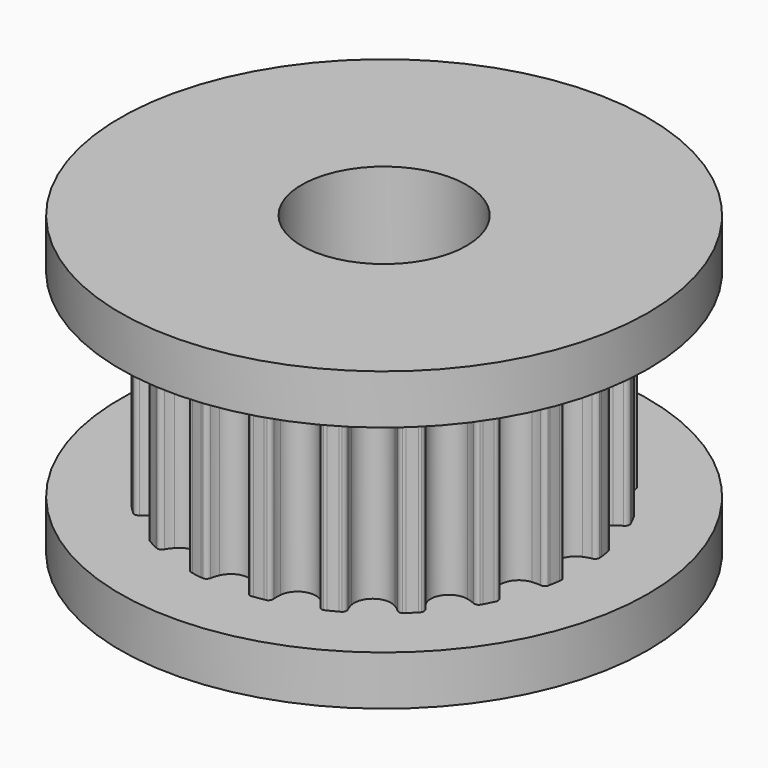
from build123d import *

# Parameters (mm, degrees)
F1_DEPTH = 6
F2_R     = 8
F3_DEPTH = 1.5
F4_R     = 8
F5_DEPTH = 1.5
F6_R     = 2.5
F7_DEPTH = 9.001


with BuildPart() as f1:
    # F0 (on Top) → F1 (new body)
    with BuildSketch(Plane.XY):
        with BuildLine():
            ThreePointArc((-0.513747, -5.595026), (0, -5.25), (0.513747, -5.595026))
            ThreePointArc((0.513747, -5.595026), (0.559269, -5.712589), (0.589638, -5.834946))
            ThreePointArc((0.589638, -5.834946), (0.634012, -5.91692), (0.718237, -5.956856))
            ThreePointArc((0.718237, -5.956856), (0.75551, -5.952244), (0.792754, -5.947398))
            ThreePointArc((0.792754, -5.947398), (0.938607, -5.92613), (1.083893, -5.901286))
            ThreePointArc((1.083893, -5.901286), (1.120812, -5.894386), (1.157686, -5.887254))
            ThreePointArc((1.157686, -5.887254), (1.225448, -5.823246), (1.242318, -5.731572))
            ThreePointArc((1.242318, -5.731572), (1.233391, -5.605819), (1.240356, -5.479943))
            ThreePointArc((1.240356, -5.479943), (1.622339, -4.993047), (2.217561, -5.162429))
            ThreePointArc((2.217561, -5.162429), (2.297184, -5.260172), (2.363877, -5.367155))
            ThreePointArc((2.363877, -5.367155), (2.43141, -5.431405), (2.523854, -5.44336))
            ThreePointArc((2.523854, -5.44336), (2.557877, -5.427455), (2.591801, -5.411337))
            ThreePointArc((2.591801, -5.411337), (2.723943, -5.346039), (2.854442, -5.277515))
            ThreePointArc((2.854442, -5.277515), (2.887421, -5.259544), (2.920286, -5.241367))
            ThreePointArc((2.920286, -5.241367), (2.964952, -5.159552), (2.952668, -5.067151))
            ThreePointArc((2.952668, -5.067151), (2.905317, -4.950312), (2.873044, -4.828444))
            ThreePointArc((2.873044, -4.828444), (3.085873, -4.247339), (3.704304, -4.224498))
            ThreePointArc((3.704304, -4.224498), (3.810234, -4.292852), (3.906722, -4.37399))
            ThreePointArc((3.906722, -4.37399), (3.990805, -4.414226), (4.082418, -4.397029))
            ThreePointArc((4.082418, -4.397029), (4.109862, -4.371389), (4.137144, -4.345577))
            ThreePointArc((4.137144, -4.345577), (4.242641, -4.242641), (4.345577, -4.137144))
            ThreePointArc((4.345577, -4.137144), (4.371389, -4.109862), (4.397029, -4.082418))
            ThreePointArc((4.397029, -4.082418), (4.414226, -3.990805), (4.37399, -3.906722))
            ThreePointArc((4.37399, -3.906722), (4.292852, -3.810234), (4.224498, -3.704304))
            ThreePointArc((4.224498, -3.704304), (4.247339, -3.085873), (4.828444, -2.873044))
            ThreePointArc((4.828444, -2.873044), (4.950312, -2.905317), (5.067151, -2.952668))
            ThreePointArc((5.067151, -2.952668), (5.159552, -2.964952), (5.241367, -2.920286))
            ThreePointArc((5.241367, -2.920286), (5.259544, -2.887421), (5.277515, -2.854442))
            ThreePointArc((5.277515, -2.854442), (5.346039, -2.723943), (5.411337, -2.591801))
            ThreePointArc((5.411337, -2.591801), (5.443243, -2.467372), (5.367155, -2.363877))
            ThreePointArc((5.367155, -2.363877), (5.260172, -2.297184), (5.162429, -2.217561))
            ThreePointArc((5.162429, -2.217561), (4.993047, -1.622339), (5.479943, -1.240356))
            ThreePointArc((5.479943, -1.240356), (5.605819, -1.233391), (5.731572, -1.242318))
            ThreePointArc((5.731572, -1.242318), (5.823246, -1.225448), (5.887254, -1.157686))
            ThreePointArc((5.887254, -1.157686), (5.894386, -1.120812), (5.901286, -1.083893))
            ThreePointArc((5.901286, -1.083893), (5.92613, -0.938607), (5.947398, -0.792754))
            ThreePointArc((5.947398, -0.792754), (5.952244, -0.75551), (5.956856, -0.718237))
            ThreePointArc((5.956856, -0.718237), (5.91692, -0.634012), (5.834946, -0.589638))
            ThreePointArc((5.834946, -0.589638), (5.712589, -0.559269), (5.595026, -0.513747))
            ThreePointArc((5.595026, -0.513747), (5.25, 0), (5.595026, 0.513747))
            ThreePointArc((5.595026, 0.513747), (5.712589, 0.559269), (5.834946, 0.589638))
            ThreePointArc((5.834946, 0.589638), (5.91692, 0.634012), (5.956856, 0.718237))
            ThreePointArc((5.956856, 0.718237), (5.952244, 0.75551), (5.947398, 0.792754))
            ThreePointArc((5.947398, 0.792754), (5.92613, 0.938607), (5.901286, 1.083893))
            ThreePointArc((5.901286, 1.083893), (5.894386, 1.120812), (5.887254, 1.157686))
            ThreePointArc((5.887254, 1.157686), (5.823246, 1.225448), (5.731572, 1.242318))
            ThreePointArc((5.731572, 1.242318), (5.605819, 1.233391), (5.479943, 1.240356))
            ThreePointArc((5.479943, 1.240356), (4.993047, 1.622339), (5.162429, 2.217561))
            ThreePointArc((5.162429, 2.217561), (5.260172, 2.297184), (5.367155, 2.363877))
            ThreePointArc((5.367155, 2.363877), (5.431405, 2.43141), (5.44336, 2.523854))
            ThreePointArc((5.44336, 2.523854), (5.427455, 2.557877), (5.411337, 2.591801))
            ThreePointArc((5.411337, 2.591801), (5.346039, 2.723943), (5.277515, 2.854442))
            ThreePointArc((5.277515, 2.854442), (5.259544, 2.887421), (5.241367, 2.920286))
            ThreePointArc((5.241367, 2.920286), (5.159552, 2.964952), (5.067151, 2.952668))
            ThreePointArc((5.067151, 2.952668), (4.950312, 2.905317), (4.828444, 2.873044))
            ThreePointArc((4.828444, 2.873044), (4.247339, 3.085873), (4.224498, 3.704304))
            ThreePointArc((4.224498, 3.704304), (4.292852, 3.810234), (4.37399, 3.906722))
            ThreePointArc((4.37399, 3.906722), (4.414226, 3.990805), (4.397029, 4.082418))
            ThreePointArc((4.397029, 4.082418), (4.371389, 4.109862), (4.345577, 4.137144))
            ThreePointArc((4.345577, 4.137144), (4.242641, 4.242641), (4.137144, 4.345577))
            ThreePointArc((4.137144, 4.345577), (4.109862, 4.371389), (4.082418, 4.397029))
            ThreePointArc((4.082418, 4.397029), (3.990805, 4.414226), (3.906722, 4.37399))
            ThreePointArc((3.906722, 4.37399), (3.810234, 4.292852), (3.704304, 4.224498))
            ThreePointArc((3.704304, 4.224498), (3.085873, 4.247339), (2.873044, 4.828444))
            ThreePointArc((2.873044, 4.828444), (2.905317, 4.950312), (2.952668, 5.067151))
            ThreePointArc((2.952668, 5.067151), (2.964952, 5.159552), (2.920286, 5.241367))
            ThreePointArc((2.920286, 5.241367), (2.887421, 5.259544), (2.854442, 5.277515))
            ThreePointArc((2.854442, 5.277515), (2.723943, 5.346039), (2.591801, 5.411337))
            ThreePointArc((2.591801, 5.411337), (2.557877, 5.427455), (2.523854, 5.44336))
            ThreePointArc((2.523854, 5.44336), (2.43141, 5.431405), (2.363877, 5.367155))
            ThreePointArc((2.363877, 5.367155), (2.297184, 5.260172), (2.217561, 5.162429))
            ThreePointArc((2.217561, 5.162429), (1.622339, 4.993047), (1.240356, 5.479943))
            ThreePointArc((1.240356, 5.479943), (1.233391, 5.605819), (1.242318, 5.731572))
            ThreePointArc((1.242318, 5.731572), (1.225448, 5.823246), (1.157686, 5.887254))
            ThreePointArc((1.157686, 5.887254), (1.120812, 5.894386), (1.083893, 5.901286))
            ThreePointArc((1.083893, 5.901286), (0.938607, 5.92613), (0.792754, 5.947398))
            ThreePointArc((0.792754, 5.947398), (0.75551, 5.952244), (0.718237, 5.956856))
            ThreePointArc((0.718237, 5.956856), (0.634012, 5.91692), (0.589638, 5.834946))
            ThreePointArc((0.589638, 5.834946), (0.559269, 5.712589), (0.513747, 5.595026))
            ThreePointArc((0.513747, 5.595026), (0, 5.25), (-0.513747, 5.595026))
            ThreePointArc((-0.513747, 5.595026), (-0.559269, 5.712589), (-0.589638, 5.834946))
            ThreePointArc((-0.589638, 5.834946), (-0.634012, 5.91692), (-0.718237, 5.956856))
            ThreePointArc((-0.718237, 5.956856), (-0.75551, 5.952244), (-0.792754, 5.947398))
            ThreePointArc((-0.792754, 5.947398), (-0.938607, 5.92613), (-1.083893, 5.901286))
            ThreePointArc((-1.083893, 5.901286), (-1.120812, 5.894386), (-1.157686, 5.887254))
            ThreePointArc((-1.157686, 5.887254), (-1.225448, 5.823246), (-1.242318, 5.731572))
            ThreePointArc((-1.242318, 5.731572), (-1.233391, 5.605819), (-1.240356, 5.479943))
            ThreePointArc((-1.240356, 5.479943), (-1.622339, 4.993047), (-2.217561, 5.162429))
            ThreePointArc((-2.217561, 5.162429), (-2.297184, 5.260172), (-2.363877, 5.367155))
            ThreePointArc((-2.363877, 5.367155), (-2.43141, 5.431405), (-2.523854, 5.44336))
            ThreePointArc((-2.523854, 5.44336), (-2.557877, 5.427455), (-2.591801, 5.411337))
            ThreePointArc((-2.591801, 5.411337), (-2.723943, 5.346039), (-2.854442, 5.277515))
            ThreePointArc((-2.854442, 5.277515), (-2.887421, 5.259544), (-2.920286, 5.241367))
            ThreePointArc((-2.920286, 5.241367), (-2.964952, 5.159552), (-2.952668, 5.067151))
            ThreePointArc((-2.952668, 5.067151), (-2.905317, 4.950312), (-2.873044, 4.828444))
            ThreePointArc((-2.873044, 4.828444), (-3.085873, 4.247339), (-3.704304, 4.224498))
            ThreePointArc((-3.704304, 4.224498), (-3.810234, 4.292852), (-3.906722, 4.37399))
            ThreePointArc((-3.906722, 4.37399), (-3.990805, 4.414226), (-4.082418, 4.397029))
            ThreePointArc((-4.082418, 4.397029), (-4.109862, 4.371389), (-4.137144, 4.345577))
            ThreePointArc((-4.137144, 4.345577), (-4.242641, 4.242641), (-4.345577, 4.137144))
            ThreePointArc((-4.345577, 4.137144), (-4.371389, 4.109862), (-4.397029, 4.082418))
            ThreePointArc((-4.397029, 4.082418), (-4.414226, 3.990805), (-4.37399, 3.906722))
            ThreePointArc((-4.37399, 3.906722), (-4.292852, 3.810234), (-4.224498, 3.704304))
            ThreePointArc((-4.224498, 3.704304), (-4.247339, 3.085873), (-4.828444, 2.873044))
            ThreePointArc((-4.828444, 2.873044), (-4.950312, 2.905317), (-5.067151, 2.952668))
            ThreePointArc((-5.067151, 2.952668), (-5.159552, 2.964952), (-5.241367, 2.920286))
            ThreePointArc((-5.241367, 2.920286), (-5.259544, 2.887421), (-5.277515, 2.854442))
            ThreePointArc((-5.277515, 2.854442), (-5.346039, 2.723943), (-5.411337, 2.591801))
            ThreePointArc((-5.411337, 2.591801), (-5.427455, 2.557877), (-5.44336, 2.523854))
            ThreePointArc((-5.44336, 2.523854), (-5.431405, 2.43141), (-5.367155, 2.363877))
            ThreePointArc((-5.367155, 2.363877), (-5.260172, 2.297184), (-5.162429, 2.217561))
            ThreePointArc((-5.162429, 2.217561), (-4.993047, 1.622339), (-5.479943, 1.240356))
            ThreePointArc((-5.479943, 1.240356), (-5.605819, 1.233391), (-5.731572, 1.242318))
            ThreePointArc((-5.731572, 1.242318), (-5.823246, 1.225448), (-5.887254, 1.157686))
            ThreePointArc((-5.887254, 1.157686), (-5.894386, 1.120812), (-5.901286, 1.083893))
            ThreePointArc((-5.901286, 1.083893), (-5.92613, 0.938607), (-5.947398, 0.792754))
            ThreePointArc((-5.947398, 0.792754), (-5.952244, 0.75551), (-5.956856, 0.718237))
            ThreePointArc((-5.956856, 0.718237), (-5.91692, 0.634012), (-5.834946, 0.589638))
            ThreePointArc((-5.834946, 0.589638), (-5.712589, 0.559269), (-5.595026, 0.513747))
            ThreePointArc((-5.595026, 0.513747), (-5.25, 0), (-5.595026, -0.513747))
            ThreePointArc((-5.595026, -0.513747), (-5.712589, -0.559269), (-5.834946, -0.589638))
            ThreePointArc((-5.834946, -0.589638), (-5.91692, -0.634012), (-5.956856, -0.718237))
            ThreePointArc((-5.956856, -0.718237), (-5.952244, -0.75551), (-5.947398, -0.792754))
            ThreePointArc((-5.947398, -0.792754), (-5.92613, -0.938607), (-5.901286, -1.083893))
            ThreePointArc((-5.901286, -1.083893), (-5.894386, -1.120812), (-5.887254, -1.157686))
            ThreePointArc((-5.887254, -1.157686), (-5.823246, -1.225448), (-5.731572, -1.242318))
            ThreePointArc((-5.731572, -1.242318), (-5.605819, -1.233391), (-5.479943, -1.240356))
            ThreePointArc((-5.479943, -1.240356), (-4.993047, -1.622339), (-5.162429, -2.217561))
            ThreePointArc((-5.162429, -2.217561), (-5.260172, -2.297184), (-5.367155, -2.363877))
            ThreePointArc((-5.367155, -2.363877), (-5.431405, -2.43141), (-5.44336, -2.523854))
            ThreePointArc((-5.44336, -2.523854), (-5.427455, -2.557877), (-5.411337, -2.591801))
            ThreePointArc((-5.411337, -2.591801), (-5.346039, -2.723943), (-5.277515, -2.854442))
            ThreePointArc((-5.277515, -2.854442), (-5.259544, -2.887421), (-5.241367, -2.920286))
            ThreePointArc((-5.241367, -2.920286), (-5.159552, -2.964952), (-5.067151, -2.952668))
            ThreePointArc((-5.067151, -2.952668), (-4.950312, -2.905317), (-4.828444, -2.873044))
            ThreePointArc((-4.828444, -2.873044), (-4.247339, -3.085873), (-4.224498, -3.704304))
            ThreePointArc((-4.224498, -3.704304), (-4.292852, -3.810234), (-4.37399, -3.906722))
            ThreePointArc((-4.37399, -3.906722), (-4.414226, -3.990805), (-4.397029, -4.082418))
            ThreePointArc((-4.397029, -4.082418), (-4.371389, -4.109862), (-4.345577, -4.137144))
            ThreePointArc((-4.345577, -4.137144), (-4.242641, -4.242641), (-4.137144, -4.345577))
            ThreePointArc((-4.137144, -4.345577), (-4.109862, -4.371389), (-4.082418, -4.397029))
            ThreePointArc((-4.082418, -4.397029), (-3.990805, -4.414226), (-3.906722, -4.37399))
            ThreePointArc((-3.906722, -4.37399), (-3.810234, -4.292852), (-3.704304, -4.224498))
            ThreePointArc((-3.704304, -4.224498), (-3.085873, -4.247339), (-2.873044, -4.828444))
            ThreePointArc((-2.873044, -4.828444), (-2.905317, -4.950312), (-2.952668, -5.067151))
            ThreePointArc((-2.952668, -5.067151), (-2.964952, -5.159552), (-2.920286, -5.241367))
            ThreePointArc((-2.920286, -5.241367), (-2.887421, -5.259544), (-2.854442, -5.277515))
            ThreePointArc((-2.854442, -5.277515), (-2.723943, -5.346039), (-2.591801, -5.411337))
            ThreePointArc((-2.591801, -5.411337), (-2.557877, -5.427455), (-2.523854, -5.44336))
            ThreePointArc((-2.523854, -5.44336), (-2.43141, -5.431405), (-2.363877, -5.367155))
            ThreePointArc((-2.363877, -5.367155), (-2.297184, -5.260172), (-2.217561, -5.162429))
            ThreePointArc((-2.217561, -5.162429), (-1.622339, -4.993047), (-1.240356, -5.479943))
            ThreePointArc((-1.240356, -5.479943), (-1.233391, -5.605819), (-1.242318, -5.731572))
            ThreePointArc((-1.242318, -5.731572), (-1.225448, -5.823246), (-1.157686, -5.887254))
            ThreePointArc((-1.157686, -5.887254), (-1.120812, -5.894386), (-1.083893, -5.901286))
            ThreePointArc((-1.083893, -5.901286), (-0.938607, -5.92613), (-0.792754, -5.947398))
            ThreePointArc((-0.792754, -5.947398), (-0.75551, -5.952244), (-0.718237, -5.956856))
            ThreePointArc((-0.718237, -5.956856), (-0.634012, -5.91692), (-0.589638, -5.834946))
            ThreePointArc((-0.589638, -5.834946), (-0.559269, -5.712589), (-0.513747, -5.595026))
        make_face()
    extrude(amount=F1_DEPTH)

    # F2 (on face) → F3 (join)
    with BuildSketch(Plane(origin=(0, 0, 0), x_dir=(1, 0, 0), z_dir=(0, 0, -1))):
        Circle(F2_R)
    extrude(amount=F3_DEPTH)

    # F4 (on face) → F5 (join)
    with BuildSketch(Plane.XY.offset(6)):
        Circle(F4_R)
    extrude(amount=F5_DEPTH)

    # F6 (on face) → F7 (cut, through all)
    with BuildSketch(Plane(origin=(0, 0, -1.5), x_dir=(1, 0, 0), z_dir=(0, 0, -1))):
        Circle(F6_R)
    extrude(amount=-F7_DEPTH, mode=Mode.SUBTRACT)


solid = f1.part
